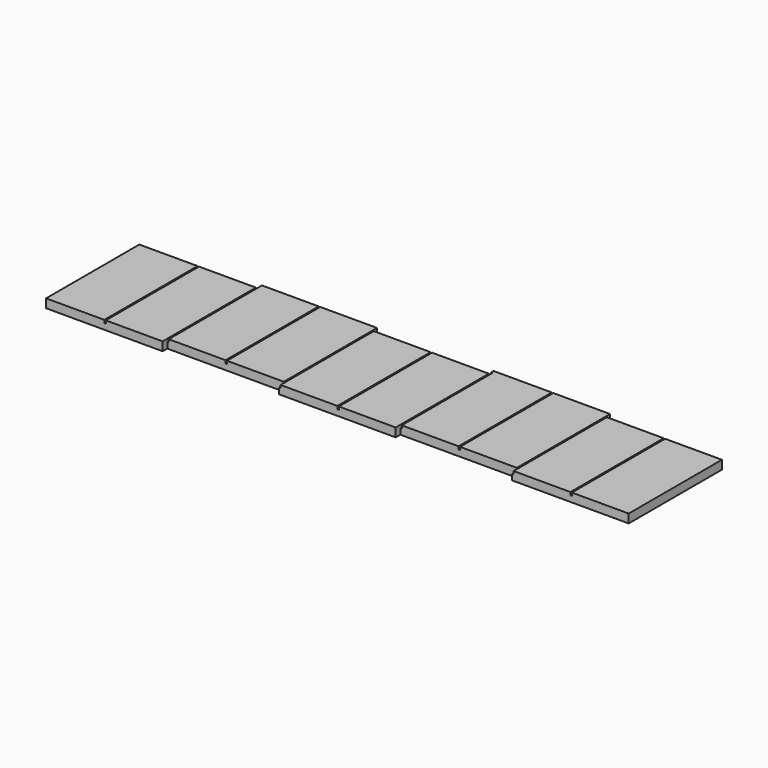
from build123d import *

# Parameters (mm, degrees)
F1_DEPTH = 3
F2_W     = 0.5
F2_H     = 40
F3_DEPTH = 1


with BuildPart() as f1:
    # F0 (on Top) → F1 (new body)
    with BuildSketch(Plane.XY):
        Polygon((-16.5439993548, -20), (23.4560006452, -20), (23.4560006452, -18), (23.4560006452, 20), (-16.5439993548, 20), align=None)
        Polygon((23.4560006452, 20), (23.4560006452, -18), (63.4560006452, -18), (63.4560006452, 20), (63.4560006452, 22), (23.4560006452, 22), align=None)
        Polygon((63.4560006452, 20), (63.4560006452, -18), (63.4560006452, -20), (103.4560006452, -20), (103.4560006452, -18), (103.4560006452, 20), align=None)
        Polygon((103.4560006452, 22), (103.4560006452, 20), (103.4560006452, -18), (143.4560006452, -18), (143.4560006452, 20), (143.4560006452, 22), align=None)
        Polygon((143.4560006452, 20), (143.4560006452, -18), (143.4560006452, -20), (183.4560006452, -20), (183.4560006452, 20), align=None)
    extrude(amount=F1_DEPTH)

    # F2 (on face) → F3 (cut)
    with BuildSketch(Plane.XY.offset(3)):
        with Locations((3.7060006452, 0)):
            Rectangle(F2_W, F2_H)
        Polygon((23.4560006452, 22), (23.4560006452, 20), (23.4560006452, -18), (23.9560006452, -18), (23.9560006452, 22), align=None)
        with Locations((43.7060006452, 2)):
            Rectangle(F2_W, F2_H)
        Polygon((63.4560006452, 20), (63.4560006452, -18), (63.4560006452, -20), (63.9560006452, -20), (63.9560006452, 20), align=None)
        with Locations((83.7060006452, 0)):
            Rectangle(F2_W, F2_H)
        Polygon((103.4560006452, 20.9933852739), (103.4560006452, 20), (103.4560006452, -18), (103.9560006452, -18), (103.9560006452, 20.9933852739), align=None)
        with Locations((123.7060006452, 2)):
            Rectangle(F2_W, F2_H)
        Polygon((143.4560006452, 20), (143.4560006452, -18), (143.4560006452, -20), (143.9560006452, -20), (143.9560006452, 20), align=None)
        with Locations((163.7060006452, 0)):
            Rectangle(F2_W, F2_H)
    extrude(amount=-F3_DEPTH, mode=Mode.SUBTRACT)


solid = f1.part
